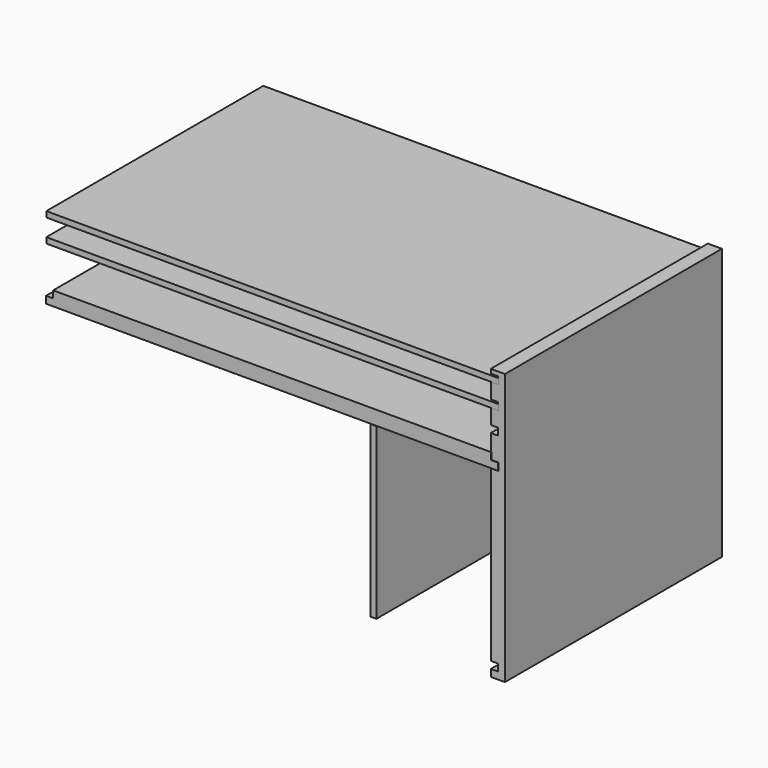
from build123d import *

# Parameters (mm, degrees)
PAD_DEPTH               = 304.8
BODY001_PLACEMENT_ANGLE = 180
PAD001_DEPTH            = 304.8
BODY003_PLACEMENT_ANGLE = 180
SKETCH002_W             = 6.35
SKETCH002_H             = 190.5
PAD002_DEPTH            = 304.8
SKETCH003_W             = 508
SKETCH003_H             = 6.35
PAD003_DEPTH            = 304.8
POCKET_DEPTH            = 0.001


with BuildPart() as rightsideclone:
    # Sketch → Pad (new body)
    with BuildSketch(Plane.XZ):
        Polygon((0, 0), (15.875, 0), (15.875, 7.9375), (7.9375, 7.9375), (7.9375, 15.875), (15.875, 15.875), (15.875, 206.375), (7.9375, 206.375), (7.9375, 214.3125), (15.875, 214.3125), (15.875, 241.3), (7.9375, 241.3), (7.9375, 249.2375), (15.875, 249.2375), (15.875, 266.7), (7.9375, 266.7), (7.9375, 274.6375), (15.875, 274.6375), (15.875, 292.1), (7.9375, 292.1), (7.9375, 300.0375), (15.875, 300.0375), (15.875, 304.8), (0, 304.8), align=None)
    extrude(amount=PAD_DEPTH)


with BuildPart() as rightsideclone_1:
    # Body001 placement: moved
    add(rightsideclone.part.moved(Location((523.023893, -304.501607, 0))).rotate(Axis((523.023893, -304.501607, 0), (0, 0, -1)), BODY001_PLACEMENT_ANGLE))


with BuildPart() as shelf1clone:
    # Sketch001 → Pad001 (new body)
    with BuildSketch(Plane.XZ):
        Polygon((0, 15.875), (0, 7.9375), (7.9375, 7.9375), (7.9375, 0), (500.0625, 0), (500.0625, 7.9375), (508, 7.9375), (508, 15.875), align=None)
    extrude(amount=PAD001_DEPTH)


with BuildPart() as shelf1clone_1:
    # Body002 placement: moved
    add(shelf1clone.part.moved(Location((7.9248, 0, 0))))


with BuildPart() as shelf1clone_2:
    # Body003 placement: moved
    add(shelf1clone_1.part.moved(Location((0, -305.1048, 222.885))).rotate(Axis((0, -305.1048, 222.885), (1, 0, 0)), BODY003_PLACEMENT_ANGLE))


with BuildPart() as shelfsupportclone:
    # Sketch002 → Pad002 (new body)
    with BuildSketch(Plane.XZ):
        with Locations((3.175, 95.25)):
            Rectangle(SKETCH002_W, SKETCH002_H)
    extrude(amount=PAD002_DEPTH)


with BuildPart() as shelfsupportclone_1:
    # Body006 placement: moved
    add(shelfsupportclone.part.moved(Location((147.5994, 0, 15.8496))))


with BuildPart() as shelfsupportclone_2:
    # Body007 placement: moved
    add(shelfsupportclone_1.part.moved(Location((224.8662, 0, 0))))


with BuildPart() as shelfsandpaper:
    # Sketch003 → Pad003 (new body)
    with BuildSketch(Plane.XZ):
        with Locations((254, 3.175)):
            Rectangle(SKETCH003_W, SKETCH003_H)
    extrude(amount=PAD003_DEPTH)

    # Sketch004 → Pocket (cut, through all)
    with BuildSketch(Plane.YZ):
        with BuildLine():
            Line((-203.2, -16.982218), (-76.2, -16.982218))
            ThreePointArc((-76.2, -55.082218), (-57.15, -36.032218), (-76.2, -16.982218))
            Line((-76.2, -55.082218), (-203.2, -55.082218))
            ThreePointArc((-203.2, -16.982218), (-222.25, -36.032218), (-203.2, -55.082218))
        make_face()
    extrude(amount=-POCKET_DEPTH, mode=Mode.SUBTRACT)


with BuildPart() as shelfsandpaper_1:
    # Body008 placement: moved
    add(shelfsandpaper.part.moved(Location((7.9248, 0, 241.7064))))


with BuildPart() as obj1:
    # Body009 base: copy of ShelfSandPaper
    add(shelfsandpaper_1.part)


with BuildPart() as obj1_1:
    # Body009 placement: moved
    add(obj1.part.moved(Location((0, 0, 24.765))))


with BuildPart() as obj2:
    # Body010 base: copy of ShelfSandPaper
    add(shelfsandpaper_1.part)


with BuildPart() as obj2_1:
    # Body010 placement: moved
    add(obj2.part.moved(Location((0, 0, 50.5206))))


solid = Compound([rightsideclone_1.part, shelf1clone_2.part, shelfsupportclone_2.part, obj1_1.part, obj2_1.part])
